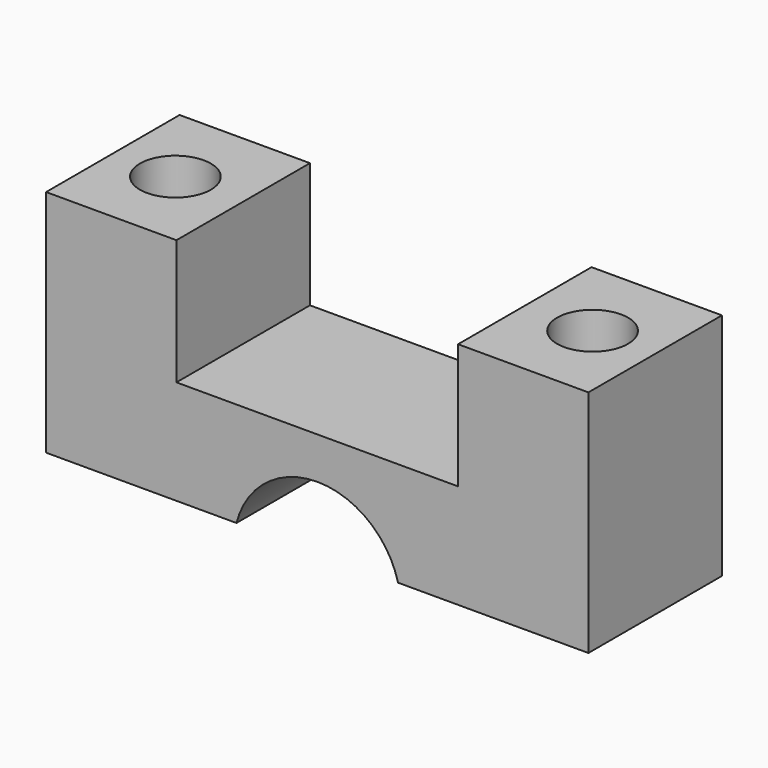
from build123d import *

# Parameters (mm, degrees)
SKETCH_W     = 26
SKETCH_H     = 8
SKETCH_R     = 1.7
PAD_DEPTH    = 5
SKETCH002_R  = 4
POCKET_DEPTH = 8.001
SKETCH003_W  = 6.25
SKETCH003_H  = 8
SKETCH003_R  = 1.7
PAD001_DEPTH = 6


with BuildPart() as part:
    # Sketch → Pad (new body)
    with BuildSketch(Plane.XY):
        with Locations((10, 0)):
            Rectangle(SKETCH_W, SKETCH_H)
        Circle(SKETCH_R, mode=Mode.SUBTRACT)
        with Locations((20, 0)):
            Circle(SKETCH_R, mode=Mode.SUBTRACT)
    extrude(amount=PAD_DEPTH)

    # Sketch002 → Pocket (cut, through all)
    with BuildSketch(Plane.XZ.offset(4)):
        with Locations((10, -1)):
            Circle(SKETCH002_R)
    extrude(amount=-POCKET_DEPTH, mode=Mode.SUBTRACT)

    # Sketch003 → Pad001 (new body)
    with BuildSketch(Plane.XY.offset(5)):
        with Locations((0.125, 0)):
            Rectangle(SKETCH003_W, SKETCH003_H)
        Circle(SKETCH003_R, mode=Mode.SUBTRACT)
        with Locations((19.875, 0)):
            Rectangle(SKETCH003_W, SKETCH003_H)
        with Locations((20, 0)):
            Circle(SKETCH003_R, mode=Mode.SUBTRACT)
    extrude(amount=PAD001_DEPTH)


solid = part.part
